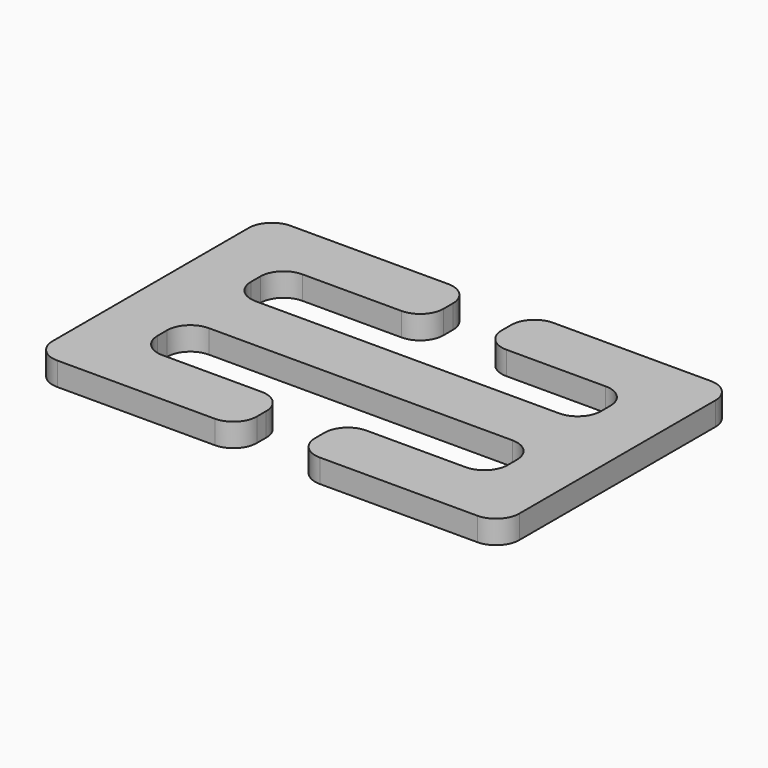
from build123d import *

# Parameters (mm, degrees)
F1_DEPTH = 2.54


with BuildPart() as f1:
    # F0 (on Top) → F1 (new body)
    with BuildSketch(Plane.XY):
        with BuildLine():
            Line((19.685, 95.250011), (2.54, 95.250011))
            ThreePointArc((2.54, 95.250011), (0.743949, 94.506062), (0, 92.710011))
            Line((0, 92.710011), (0, 66.040011))
            ThreePointArc((0, 66.040011), (0.743949, 64.24396), (2.54, 63.500011))
            Line((2.54, 63.500011), (19.685, 63.500011))
            ThreePointArc((19.685, 63.500011), (21.481051, 64.24396), (22.225, 66.040011))
            Line((22.225, 66.040011), (22.225, 67.310011))
            ThreePointArc((22.225, 67.310011), (21.481051, 69.106062), (19.685, 69.850011))
            Line((19.685, 69.850011), (8.89, 69.850011))
            ThreePointArc((8.89, 69.850011), (7.093949, 70.59396), (6.35, 72.390011))
            Line((6.35, 72.390011), (6.35, 73.660011))
            ThreePointArc((6.35, 73.660011), (7.093949, 75.456062), (8.89, 76.200011))
            Line((8.89, 76.200011), (41.91, 76.200011))
            ThreePointArc((41.91, 76.200011), (43.706051, 75.456062), (44.45, 73.660011))
            Line((44.45, 73.660011), (44.45, 72.390011))
            ThreePointArc((44.45, 72.390011), (43.706051, 70.59396), (41.91, 69.850011))
            Line((41.91, 69.850011), (31.115, 69.850011))
            ThreePointArc((31.115, 69.850011), (29.318949, 69.106062), (28.575, 67.310011))
            Line((28.575, 67.310011), (28.575, 66.040011))
            ThreePointArc((28.575, 66.040011), (29.318949, 64.24396), (31.115, 63.500011))
            Line((31.115, 63.500011), (48.26, 63.500011))
            ThreePointArc((48.26, 63.500011), (50.056051, 64.24396), (50.8, 66.040011))
            Line((50.8, 66.040011), (50.8, 92.710011))
            ThreePointArc((50.8, 92.710011), (50.056051, 94.506062), (48.26, 95.250011))
            Line((48.26, 95.250011), (31.115, 95.250011))
            ThreePointArc((31.115, 95.250011), (29.318949, 94.506062), (28.575, 92.710011))
            Line((28.575, 92.710011), (28.575, 91.440011))
            ThreePointArc((28.575, 91.440011), (29.318949, 89.64396), (31.115, 88.900011))
            Line((31.115, 88.900011), (41.91, 88.900011))
            ThreePointArc((41.91, 88.900011), (43.706051, 88.156062), (44.45, 86.360011))
            Line((44.45, 86.360011), (44.45, 85.090011))
            ThreePointArc((44.45, 85.090011), (43.706051, 83.29396), (41.91, 82.550011))
            Line((41.91, 82.550011), (8.89, 82.550011))
            ThreePointArc((8.89, 82.550011), (7.093949, 83.29396), (6.35, 85.090011))
            Line((6.35, 85.090011), (6.35, 86.360011))
            ThreePointArc((6.35, 86.360011), (7.093949, 88.156062), (8.89, 88.900011))
            Line((8.89, 88.900011), (19.685, 88.900011))
            ThreePointArc((19.685, 88.900011), (21.481051, 89.64396), (22.225, 91.440011))
            Line((22.225, 91.440011), (22.225, 92.710011))
            ThreePointArc((22.225, 92.710011), (21.481051, 94.506062), (19.685, 95.250011))
        make_face()
    extrude(amount=F1_DEPTH)


solid = f1.part
